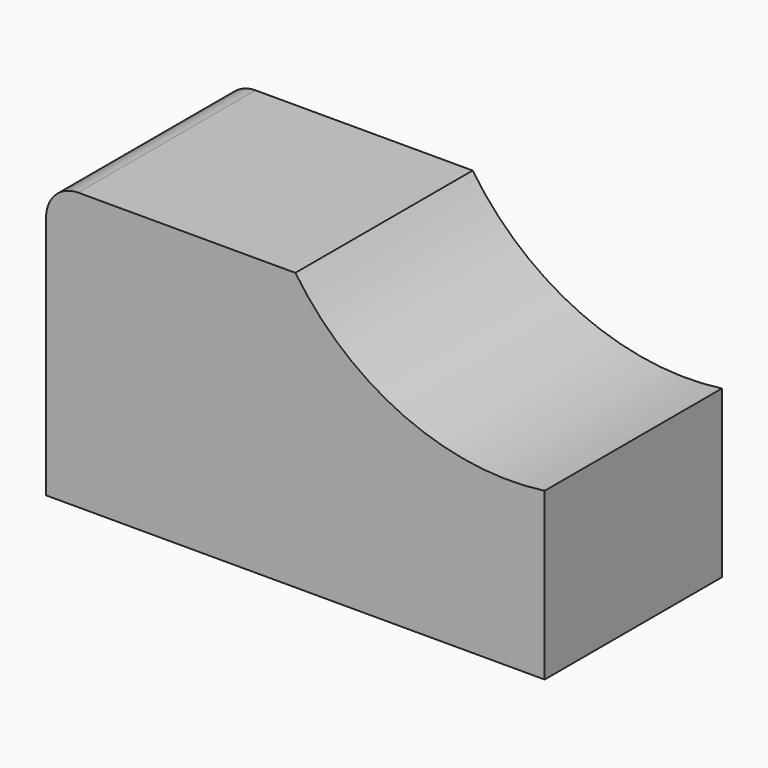
from build123d import *

# Parameters (mm, degrees)
F0_W     = 57.15
F0_H     = 31.75
F1_DEPTH = 25.4
F3_DEPTH = 25.4
F4_R     = 3.679261


with BuildPart() as f1:
    # F0 (on Front) → F1 (new body)
    with BuildSketch(Plane.XZ):
        with Locations((28.575, 15.875)):
            Rectangle(F0_W, F0_H)
    extrude(amount=F1_DEPTH)

    # F2 (on face) → F3 (cut)
    with BuildSketch(Plane.XZ.offset(25.4)):
        with BuildLine():
            Line((57.15, 31.75), (28.575, 31.75))
            ThreePointArc((28.575, 31.75), (41.05591, 21.335173), (57.15, 19.05))
            Line((57.15, 19.05), (57.15, 31.75))
        make_face()
    extrude(amount=-F3_DEPTH, mode=Mode.SUBTRACT)

    # F4
    f4_edges = [f1.edges().sort_by_distance(p)[0] for p in [
        (0, -12.7, 31.75),
    ]]
    fillet(f4_edges, radius=F4_R)


solid = f1.part
